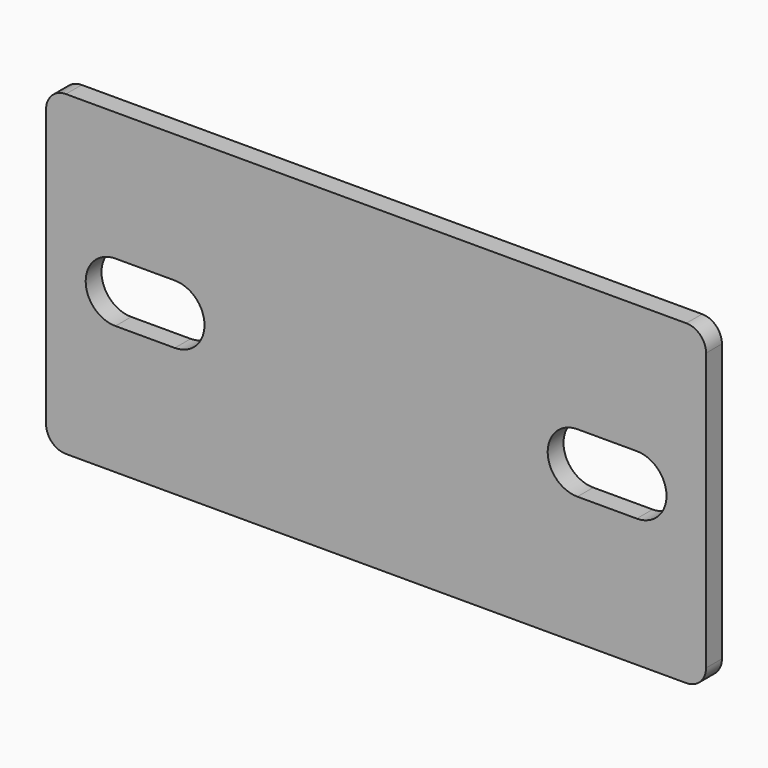
from build123d import *

# Parameters (mm, degrees)
F1_DEPTH = 3
F3_DEPTH = 25


with BuildPart() as f1:
    # F0 (on Front) → F1 (new body)
    with BuildSketch(Plane.XZ):
        with BuildLine():
            ThreePointArc((50, 21), (49.12132, 23.12132), (47, 24))
            Line((47, 24), (-47, 24))
            ThreePointArc((-47, 24), (-49.12132, 23.12132), (-50, 21))
            Line((-50, 21), (-50, -21))
            ThreePointArc((-50, -21), (-49.12132, -23.12132), (-47, -24))
            Line((-47, -24), (47, -24))
            ThreePointArc((47, -24), (49.12132, -23.12132), (50, -21))
            Line((50, -21), (50, 21))
        make_face()
    extrude(amount=F1_DEPTH)

    # F2 (on face) → F3 (cut)
    with BuildSketch(Plane.XZ.offset(3)):
        with BuildLine():
            Line((30.5, -4.5), (39.5, -4.5))
            ThreePointArc((39.5, -4.5), (44, 0), (39.5, 4.5))
            Line((39.5, 4.5), (30.5, 4.5))
            ThreePointArc((30.5, 4.5), (26, 0), (30.5, -4.5))
        make_face()
        with BuildLine():
            ThreePointArc((-30.5, -4.5), (-26, 0), (-30.5, 4.5))
            Line((-30.5, 4.5), (-39.5, 4.5))
            ThreePointArc((-39.5, 4.5), (-44, 0), (-39.5, -4.5))
            Line((-39.5, -4.5), (-30.5, -4.5))
        make_face()
    extrude(amount=-F3_DEPTH, mode=Mode.SUBTRACT)


solid = f1.part
